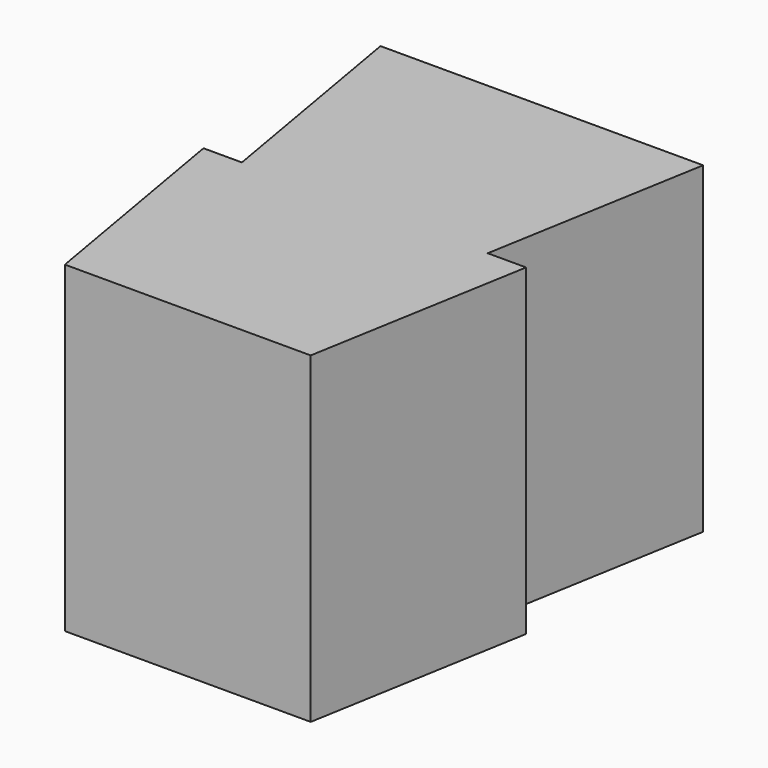
from build123d import *

# Parameters (mm, degrees)
F1_DEPTH = 105


with BuildPart() as f1:
    # F0 (on Top) → F1 (new body)
    with BuildSketch(Plane.XY):
        Polygon((-52.5, 72), (-40, 0), (0, 0), (0, 72), align=None)
        Polygon((0, 0), (-40, 0), (-52.5, 0), (-40, -72), (0, -72), align=None)
        Polygon((0, 72), (0, 0), (40, 0), (52.5, 72), align=None)
        Polygon((40, 0), (0, 0), (0, -72), (40, -72), (52.5, 0), align=None)
    extrude(amount=F1_DEPTH)


solid = f1.part
